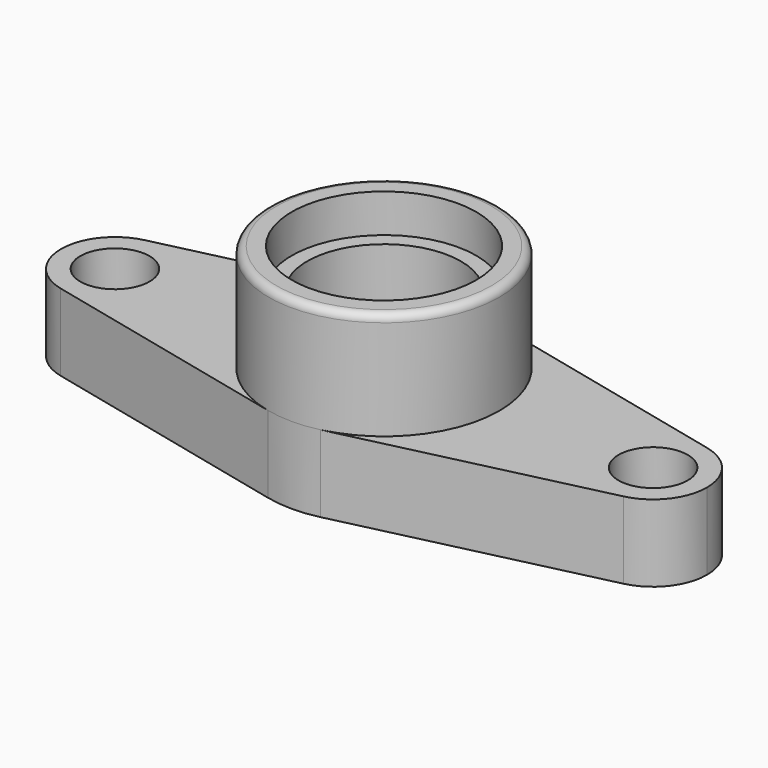
from build123d import *

# Parameters (mm, degrees)
F1_DEPTH  = 10
F2_R      = 15
F3_DEPTH  = 14
F4_R      = 4.5
F5_DEPTH  = 5
F7_R      = 3
F8_DEPTH  = 27.2
F10_R     = 12
F11_DEPTH = 5
F13_R     = 10
F14_DEPTH = 25
F16_R     = 1


with BuildPart() as f1:
    # F0 (on Top) → F1 (new body)
    with BuildSketch(Plane.XY):
        with BuildLine():
            ThreePointArc((3.428571, -14.602907), (11.756457, -9.315885), (15, 0))
            ThreePointArc((15, 0), (11.756457, 9.315885), (3.428571, 14.602907))
            ThreePointArc((3.428571, 14.602907), (0, 15), (-3.428571, 14.602907))
            ThreePointArc((-3.428571, 14.602907), (-15, 0), (-3.428571, -14.602907))
            ThreePointArc((-3.428571, -14.602907), (0, -15), (3.428571, -14.602907))
        make_face()
        with BuildLine():
            ThreePointArc((3.428571, 14.602907), (11.756457, 9.315885), (15, 0))
            ThreePointArc((15, 0), (11.756457, -9.315885), (3.428571, -14.602907))
            Line((3.428571, -14.602907), (36.6, -6.81469))
            ThreePointArc((36.6, -6.81469), (28, 0), (36.6, 6.81469))
            Line((36.6, 6.81469), (3.428571, 14.602907))
        make_face()
        with BuildLine():
            ThreePointArc((-3.428571, -14.602907), (-15, 0), (-3.428571, 14.602907))
            Line((-3.428571, 14.602907), (-36.6, 6.81469))
            ThreePointArc((-36.6, 6.81469), (-30.652587, 5.486347), (-28, 0))
            ThreePointArc((-28, 0), (-30.652587, -5.486347), (-36.6, -6.81469))
            Line((-36.6, -6.81469), (-3.428571, -14.602907))
        make_face()
        with BuildLine():
            ThreePointArc((42, 0), (40.486347, 4.347413), (36.6, 6.81469))
            ThreePointArc((36.6, 6.81469), (28, 0), (36.6, -6.81469))
            ThreePointArc((36.6, -6.81469), (40.486347, -4.347413), (42, 0))
        make_face()
        with BuildLine():
            ThreePointArc((-28, 0), (-30.652587, 5.486347), (-36.6, 6.81469))
            ThreePointArc((-36.6, 6.81469), (-42, 0), (-36.6, -6.81469))
            ThreePointArc((-36.6, -6.81469), (-30.652587, -5.486347), (-28, 0))
        make_face()
    extrude(amount=F1_DEPTH)

    # F2 (on face) → F3 (join)
    with BuildSketch(Plane.XY.offset(10)):
        Circle(F2_R)
    extrude(amount=F3_DEPTH)


with BuildPart() as f5:
    # F4 (on face) → F5 (new body)
    with BuildSketch(Plane.XY.offset(10)):
        with Locations((-35, 0)):
            Circle(F4_R)
        with Locations((35, 0)):
            Circle(F4_R)
    extrude(amount=-F5_DEPTH)


with BuildPart() as f1_1:
    add(f1.part)

    # F6: cut F5
    add(f5.part, mode=Mode.SUBTRACT)


with BuildPart() as f8:
    # F7 (on face) → F8 (new body)
    with BuildSketch(Plane.XY.offset(5)):
        with Locations((-35, 0)):
            Circle(F7_R)
        with Locations((35, 0)):
            Circle(F7_R)
    extrude(amount=-F8_DEPTH)


with BuildPart() as f1_2:
    add(f1_1.part)

    # F9: cut F8
    add(f8.part, mode=Mode.SUBTRACT)


with BuildPart() as f11:
    # F10 (on face) → F11 (new body)
    with BuildSketch(Plane.XY.offset(24)):
        Circle(F10_R)
    extrude(amount=-F11_DEPTH)


with BuildPart() as f1_3:
    add(f1_2.part)

    # F12: cut F11
    add(f11.part, mode=Mode.SUBTRACT)


with BuildPart() as f14:
    # F13 (on face) → F14 (new body)
    with BuildSketch(Plane.XY.offset(19)):
        Circle(F13_R)
    extrude(amount=-F14_DEPTH)


with BuildPart() as f1_4:
    add(f1_3.part)

    # F15: cut F14
    add(f14.part, mode=Mode.SUBTRACT)

    # F16
    f16_edges = [f1_4.edges().sort_by_distance(p)[0] for p in [
        (-15, 0, 24),
    ]]
    fillet(f16_edges, radius=F16_R)


solid = f1_4.part
